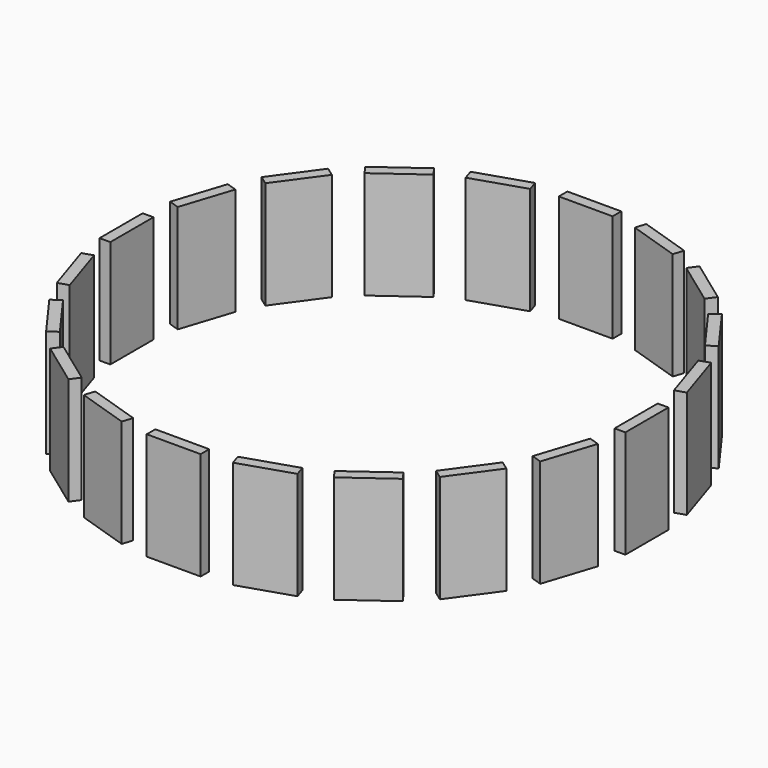
from build123d import *

# Parameters (mm, degrees)
F1_W     = 10
F1_H     = 20
F2_DEPTH = 2
F4_COUNT = 20


with BuildPart() as f2:
    # F1 (on offset) → F2 (new body)
    with BuildSketch(Plane.YZ.offset(48.8)):
        with Locations((0, -10)):
            Rectangle(F1_W, F1_H)
    extrude(amount=-F2_DEPTH)


with BuildPart() as f4_1:
    # F4: instance of F2
    add(f2.part.rotate(Axis((0, 0, -2.695028), (0, 0, 1)), 1 * 360 / F4_COUNT))


with BuildPart() as f4_2:
    # F4: instance of F2
    add(f2.part.rotate(Axis((0, 0, -2.695028), (0, 0, 1)), 2 * 360 / F4_COUNT))


with BuildPart() as f4_3:
    # F4: instance of F2
    add(f2.part.rotate(Axis((0, 0, -2.695028), (0, 0, 1)), 3 * 360 / F4_COUNT))


with BuildPart() as f4_4:
    # F4: instance of F2
    add(f2.part.rotate(Axis((0, 0, -2.695028), (0, 0, 1)), 4 * 360 / F4_COUNT))


with BuildPart() as f4_5:
    # F4: instance of F2
    add(f2.part.rotate(Axis((0, 0, -2.695028), (0, 0, 1)), 5 * 360 / F4_COUNT))


with BuildPart() as f4_6:
    # F4: instance of F2
    add(f2.part.rotate(Axis((0, 0, -2.695028), (0, 0, 1)), 6 * 360 / F4_COUNT))


with BuildPart() as f4_7:
    # F4: instance of F2
    add(f2.part.rotate(Axis((0, 0, -2.695028), (0, 0, 1)), 7 * 360 / F4_COUNT))


with BuildPart() as f4_8:
    # F4: instance of F2
    add(f2.part.rotate(Axis((0, 0, -2.695028), (0, 0, 1)), 8 * 360 / F4_COUNT))


with BuildPart() as f4_9:
    # F4: instance of F2
    add(f2.part.rotate(Axis((0, 0, -2.695028), (0, 0, 1)), 9 * 360 / F4_COUNT))


with BuildPart() as f4_10:
    # F4: instance of F2
    add(f2.part.rotate(Axis((0, 0, -2.695028), (0, 0, 1)), 10 * 360 / F4_COUNT))


with BuildPart() as f4_11:
    # F4: instance of F2
    add(f2.part.rotate(Axis((0, 0, -2.695028), (0, 0, 1)), 11 * 360 / F4_COUNT))


with BuildPart() as f4_12:
    # F4: instance of F2
    add(f2.part.rotate(Axis((0, 0, -2.695028), (0, 0, 1)), 12 * 360 / F4_COUNT))


with BuildPart() as f4_13:
    # F4: instance of F2
    add(f2.part.rotate(Axis((0, 0, -2.695028), (0, 0, 1)), 13 * 360 / F4_COUNT))


with BuildPart() as f4_14:
    # F4: instance of F2
    add(f2.part.rotate(Axis((0, 0, -2.695028), (0, 0, 1)), 14 * 360 / F4_COUNT))


with BuildPart() as f4_15:
    # F4: instance of F2
    add(f2.part.rotate(Axis((0, 0, -2.695028), (0, 0, 1)), 15 * 360 / F4_COUNT))


with BuildPart() as f4_16:
    # F4: instance of F2
    add(f2.part.rotate(Axis((0, 0, -2.695028), (0, 0, 1)), 16 * 360 / F4_COUNT))


with BuildPart() as f4_17:
    # F4: instance of F2
    add(f2.part.rotate(Axis((0, 0, -2.695028), (0, 0, 1)), 17 * 360 / F4_COUNT))


with BuildPart() as f4_18:
    # F4: instance of F2
    add(f2.part.rotate(Axis((0, 0, -2.695028), (0, 0, 1)), 18 * 360 / F4_COUNT))


with BuildPart() as f4_19:
    # F4: instance of F2
    add(f2.part.rotate(Axis((0, 0, -2.695028), (0, 0, 1)), 19 * 360 / F4_COUNT))


solid = Compound([f2.part, f4_1.part, f4_2.part, f4_3.part, f4_4.part, f4_5.part, f4_6.part, f4_7.part, f4_8.part, f4_9.part, f4_10.part, f4_11.part, f4_12.part, f4_13.part, f4_14.part, f4_15.part, f4_16.part, f4_17.part, f4_18.part, f4_19.part])
